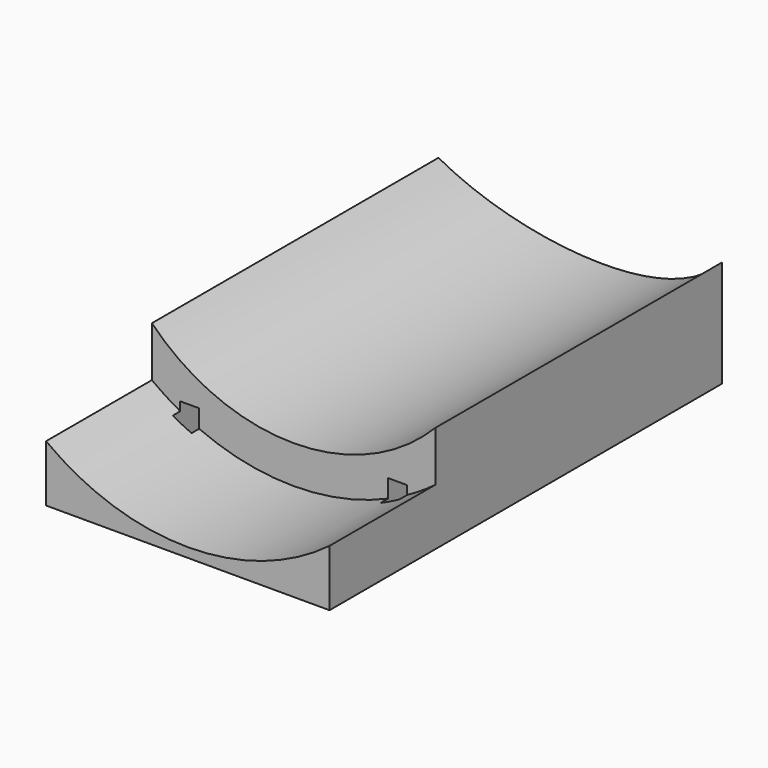
from build123d import *

# Parameters (mm, degrees)
CYLINDER2790_R     = 38
CYLINDER2790_DEPTH = 30
BOX969_W           = 2
BOX969_H           = 6
BOX969_DEPTH       = 6
BOX970_W           = 2
BOX970_H           = 6
BOX970_DEPTH       = 6
BOX971_W           = 2
BOX971_H           = 6
BOX971_DEPTH       = 6
BOX972_W           = 2
BOX972_H           = 6
BOX972_DEPTH       = 6
BOX973_W           = 2
BOX973_H           = 6
BOX973_DEPTH       = 6
BOX968_W           = 2
BOX968_H           = 6
BOX968_DEPTH       = 6
TUBE123_R          = 21
TUBE123_R_2        = 2
TUBE123_DEPTH      = 64
TUBE124_R          = 25
TUBE124_R_2        = 2
TUBE124_DEPTH      = 26
BOX891_W           = 30
BOX891_H           = 64
BOX891_DEPTH       = 18


with BuildPart() as obj1:
    # Cylinder2790 → Cylinder2790 (new body)
    with BuildSketch(Plane.XY):
        Circle(CYLINDER2790_R)
    extrude(amount=CYLINDER2790_DEPTH)


with BuildPart() as krychle968:
    # Box969 → Box969 (new body)
    with BuildSketch(Plane(origin=(-12, -4, 10), x_dir=(1, 0, 0), z_dir=(0, 0, 1))):
        with Locations((1, 3)):
            Rectangle(BOX969_W, BOX969_H)
    extrude(amount=BOX969_DEPTH)


with BuildPart() as krychle969:
    # Box970 → Box970 (new body)
    with BuildSketch(Plane(origin=(10, 26, 10), x_dir=(1, 0, 0), z_dir=(0, 0, 1))):
        with Locations((1, 3)):
            Rectangle(BOX970_W, BOX970_H)
    extrude(amount=BOX970_DEPTH)


with BuildPart() as krychle970:
    # Box971 → Box971 (new body)
    with BuildSketch(Plane(origin=(-12, 26, 10), x_dir=(1, 0, 0), z_dir=(0, 0, 1))):
        with Locations((1, 3)):
            Rectangle(BOX971_W, BOX971_H)
    extrude(amount=BOX971_DEPTH)


with BuildPart() as krychle971:
    # Box972 → Box972 (new body)
    with BuildSketch(Plane(origin=(10, 12, 10), x_dir=(1, 0, 0), z_dir=(0, 0, 1))):
        with Locations((1, 3)):
            Rectangle(BOX972_W, BOX972_H)
    extrude(amount=BOX972_DEPTH)


with BuildPart() as krychle972:
    # Box973 → Box973 (new body)
    with BuildSketch(Plane(origin=(-12, 12, 10), x_dir=(1, 0, 0), z_dir=(0, 0, 1))):
        with Locations((1, 3)):
            Rectangle(BOX973_W, BOX973_H)
    extrude(amount=BOX973_DEPTH)


with BuildPart() as compound1242:
    # Box968 → Box968 (new body)
    with BuildSketch(Plane(origin=(10, -4, 10), x_dir=(1, 0, 0), z_dir=(0, 0, 1))):
        with Locations((1, 3)):
            Rectangle(BOX968_W, BOX968_H)
    extrude(amount=BOX968_DEPTH)

    # Compound1242: union Krychle968, Krychle969, Krychle970, Krychle971, Krychle972
    add(krychle968.part)
    add(krychle969.part)
    add(krychle970.part)
    add(krychle971.part)
    add(krychle972.part)


with BuildPart() as tube123:
    # Tube123 → Tube123 (new body)
    with BuildSketch(Plane(origin=(0, 61, 37), x_dir=(1, 0, 0), z_dir=(0, -1, 0))):
        Circle(TUBE123_R)
        Circle(TUBE123_R_2, mode=Mode.SUBTRACT)
    extrude(amount=TUBE123_DEPTH)


with BuildPart() as tube124:
    # Tube124 → Tube124 (new body)
    with BuildSketch(Plane(origin=(0, -3, 37), x_dir=(1, 0, 0), z_dir=(0, -1, 0))):
        Circle(TUBE124_R)
        Circle(TUBE124_R_2, mode=Mode.SUBTRACT)
    extrude(amount=TUBE124_DEPTH)


with BuildPart() as common:
    # Box891 → Box891 (new body)
    with BuildSketch(Plane(origin=(-15, -17, 11), x_dir=(1, 0, 0), z_dir=(0, 0, 1))):
        with Locations((15, 32)):
            Rectangle(BOX891_W, BOX891_H)
    extrude(amount=BOX891_DEPTH)

    # Cut977: cut Tube124
    add(tube124.part, mode=Mode.SUBTRACT)

    # Cut001: cut Tube123
    add(tube123.part, mode=Mode.SUBTRACT)

    # Cut1048: cut Compound1242
    add(compound1242.part, mode=Mode.SUBTRACT)

    # Common: intersect obj1
    add(obj1.part, mode=Mode.INTERSECT)


solid = common.part
